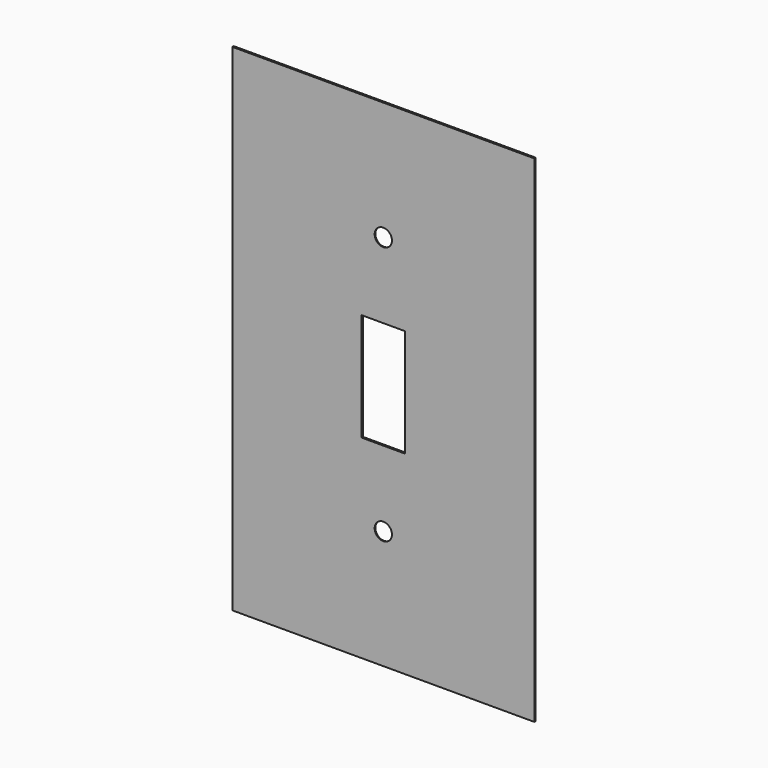
from build123d import *

# Parameters (mm, degrees)
F0_W     = 177.8
F0_H     = 292.1
F1_DEPTH = 1.016
F3_W     = 25.4
F3_H     = 63.5
F4_DEPTH = 25.4
F5_T     = -0.508
F6_R     = 5.08
F7_DEPTH = 25.4
F8_R     = 5.08
F9_DEPTH = 25.4


with BuildPart() as f1:
    # F0 (on Front) → F1 (new body)
    with BuildSketch(Plane.XZ):
        with Locations((88.9, 146.05)):
            Rectangle(F0_W, F0_H)
    extrude(amount=F1_DEPTH)

    # F3 (on face) → F4 (cut)
    with BuildSketch(Plane.XZ.offset(1.016)):
        with Locations((88.9, 146.05)):
            Rectangle(F3_W, F3_H)
    extrude(amount=-F4_DEPTH, mode=Mode.SUBTRACT)

    # F5
    f5_openings = [f1.faces().sort_by_distance(p)[0] for p in [
        (3.41958, 0, 146.05),
    ]]
    offset(amount=F5_T, openings=f5_openings, kind=Kind.INTERSECTION)

    # F6 (on face) → F7 (cut)
    with BuildSketch(Plane.XZ.offset(1.016)):
        with Locations((88.9, 69.85)):
            Circle(F6_R)
    extrude(amount=-F7_DEPTH, mode=Mode.SUBTRACT)

    # F8 (on face) → F9 (cut)
    with BuildSketch(Plane.XZ.offset(1.016)):
        with Locations((88.9, 222.25)):
            Circle(F8_R)
    extrude(amount=-F9_DEPTH, mode=Mode.SUBTRACT)


solid = f1.part
